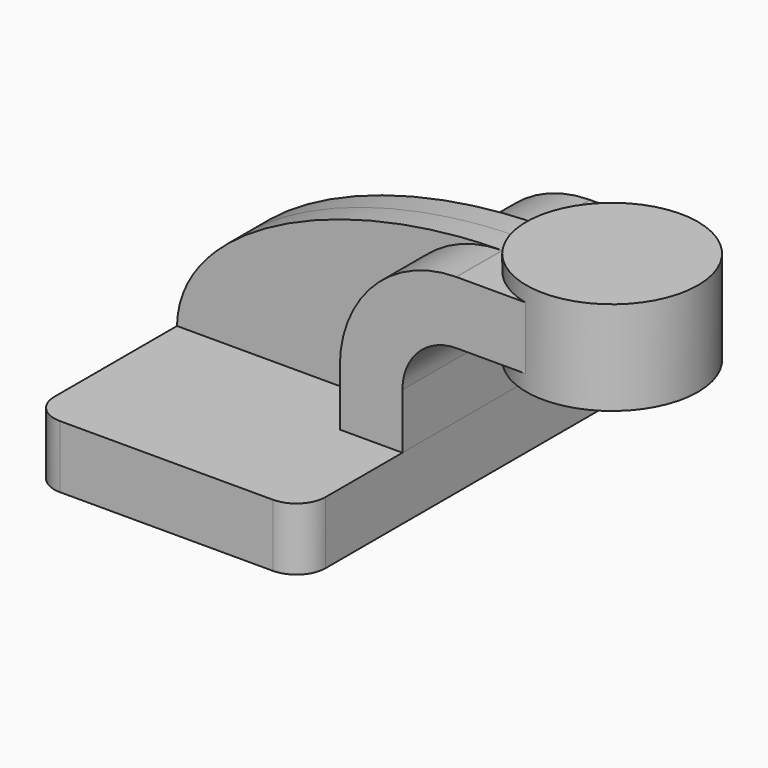
from build123d import *

# Parameters (mm, degrees)
F1_DEPTH = 63.5
F0_W     = 24.6795253844
F0_H     = 19.05
F2_DEPTH = 25.4
F3_DEPTH = 7.9375
F5_R     = 8.89


with BuildPart() as f1:
    # F0 (on Front) → F1 (new body, symmetric)
    with BuildSketch(Plane.XZ):
        Polygon((-41.275, -9.525), (41.275, -9.525), (41.275, 9.525), (22.225, 9.525), (-41.275, 9.525), align=None)
    extrude(amount=F1_DEPTH, both=True)

    # F5
    f5_edges = [f1.edges().sort_by_distance(p)[0] for p in [
        (41.275, -63.5, 0),
        (-41.275, -63.5, 0),
        (41.275, 63.5, 0),
        (-41.275, 63.5, 0),
    ]]
    fillet(f5_edges, radius=F5_R)


with BuildPart() as f2:
    # F0 (on Front) → F2 (new body, symmetric)
    with BuildSketch(Plane.XZ):
        with BuildLine():
            Line((22.225, 9.525), (41.275, 9.525))
            Line((41.275, 9.525), (41.275, 26.3652))
            ThreePointArc((41.275, 26.3652), (46.1106670426, 38.0395329574), (57.785, 42.8752))
            Line((57.785, 42.8752), (60.071, 42.8752))
            Line((60.071, 42.8752), (60.071, 61.9252))
            Line((60.071, 61.9252), (57.785, 61.9252))
            add(Edge.make_bspline(
                [(57.5646027355, 61.9245169935), (57.6380683633, 61.9247949798), (57.711534172, 61.9250226661), (57.785, 61.9252)],
                knots=[111.8982407791, 111.8982407791, 111.8982407791, 111.8982407791, 112.0654476636, 112.0654476636, 112.0654476636, 112.0654476636], degree=3))
            ThreePointArc((57.5646027355, 61.9245169935), (32.5624810266, 51.4318738248), (22.225, 26.3652))
            Line((22.225, 26.3652), (22.225, 9.525))
        make_face()
        with Locations((72.4107626922, 52.4002)):
            Rectangle(F0_W, F0_H)
    extrude(amount=F2_DEPTH, both=True)

    # F0 (on Front) → F4 (revolve)
    with BuildSketch(Plane.XZ):
        Polygon((84.7505253844, 61.9252), (84.7505253844, 42.8752), (84.7505253844, 38.1), (110.871, 38.1), (110.871, 66.675), (84.7505253844, 66.675), align=None)
    revolve(axis=Axis((84.7505253844, 0, 52.3875), (0, 0, 1)))


with BuildPart() as f3:
    # F0 (on Front) → F3 (new body, symmetric)
    with BuildSketch(Plane.XZ):
        with BuildLine():
            add(Edge.make_bspline(
                [(-41.275, 9.525), (-40.6837804171, 39.0253399318), (8.3999135259, 61.7384829553), (57.5646027355, 61.9245169935)],
                knots=[0, 0, 0, 0, 111.8982407791, 111.8982407791, 111.8982407791, 111.8982407791], degree=3))
            Line((-41.275, 9.525), (22.225, 9.525))
            Line((22.225, 9.525), (22.225, 26.3652))
            ThreePointArc((22.225, 26.3652), (32.5624810266, 51.4318738248), (57.5646027355, 61.9245169935))
        make_face()
    extrude(amount=F3_DEPTH, both=True)


solid = Compound([f1.part, f2.part, f3.part])
